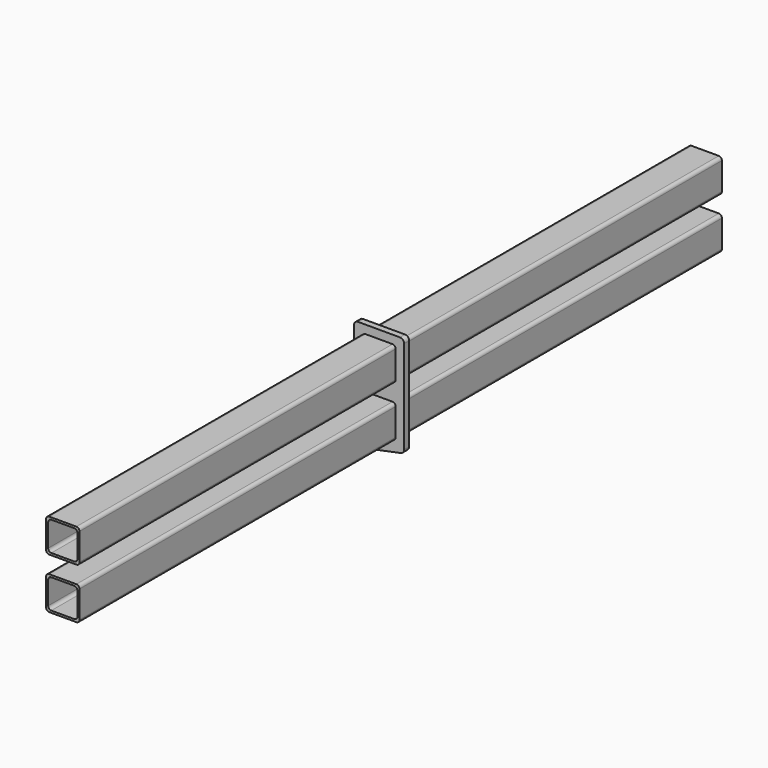
from build123d import *

# Parameters (mm, degrees)
F1_DEPTH = 1219.2
F0_R     = 19.05
F2_DEPTH = 19.05


with BuildPart() as f1:
    # F0 (on Front) → F1 (new body, symmetric)
    with BuildSketch(Plane.XZ):
        with BuildLine():
            Line((66.897137, 173.808873), (-15.398863, 173.808873))
            ThreePointArc((-15.398863, 173.808873), (-22.223858, 170.981868), (-25.050863, 164.156873))
            Line((-25.050863, 164.156873), (-25.050863, 81.860873))
            ThreePointArc((-25.050863, 81.860873), (-22.223858, 75.035879), (-15.398863, 72.208873))
            Line((-15.398863, 72.208873), (66.897137, 72.208873))
            ThreePointArc((66.897137, 72.208873), (73.722131, 75.035879), (76.549137, 81.860873))
            Line((76.549137, 81.860873), (76.549137, 164.156873))
            ThreePointArc((76.549137, 164.156873), (73.722131, 170.981868), (66.897137, 173.808873))
        make_face()
        with BuildLine():
            ThreePointArc((-18.700863, 157.806873), (-15.873858, 164.631868), (-9.048863, 167.458873))
            Line((-9.048863, 167.458873), (60.547137, 167.458873))
            ThreePointArc((60.547137, 167.458873), (67.372131, 164.631868), (70.199137, 157.806873))
            Line((70.199137, 157.806873), (70.199137, 88.210873))
            ThreePointArc((70.199137, 88.210873), (67.372131, 81.385879), (60.547137, 78.558873))
            Line((60.547137, 78.558873), (-9.048863, 78.558873))
            ThreePointArc((-9.048863, 78.558873), (-15.873858, 81.385879), (-18.700863, 88.210873))
            Line((-18.700863, 88.210873), (-18.700863, 157.806873))
        make_face(mode=Mode.SUBTRACT)
        with BuildLine():
            Line((66.897137, 19.873195), (-15.398863, 19.873195))
            ThreePointArc((-15.398863, 19.873195), (-22.223858, 17.04619), (-25.050863, 10.221195))
            Line((-25.050863, 10.221195), (-25.050863, -72.074805))
            ThreePointArc((-25.050863, -72.074805), (-22.223858, -78.899799), (-15.398863, -81.726805))
            Line((-15.398863, -81.726805), (66.897137, -81.726805))
            ThreePointArc((66.897137, -81.726805), (73.722131, -78.899799), (76.549137, -72.074805))
            Line((76.549137, -72.074805), (76.549137, 10.221195))
            ThreePointArc((76.549137, 10.221195), (73.722131, 17.04619), (66.897137, 19.873195))
        make_face()
        with BuildLine():
            ThreePointArc((-18.700863, 3.871195), (-15.873858, 10.69619), (-9.048863, 13.523195))
            Line((-9.048863, 13.523195), (60.547137, 13.523195))
            ThreePointArc((60.547137, 13.523195), (67.372131, 10.69619), (70.199137, 3.871195))
            Line((70.199137, 3.871195), (70.199137, -65.724805))
            ThreePointArc((70.199137, -65.724805), (67.372131, -72.549799), (60.547137, -75.376805))
            Line((60.547137, -75.376805), (-9.048863, -75.376805))
            ThreePointArc((-9.048863, -75.376805), (-15.873858, -72.549799), (-18.700863, -65.724805))
            Line((-18.700863, -65.724805), (-18.700863, 3.871195))
        make_face(mode=Mode.SUBTRACT)
    extrude(amount=F1_DEPTH, both=True)


with BuildPart() as f2:
    # F0 (on Front) → F2 (new body)
    with BuildSketch(Plane.XZ):
        with BuildLine():
            Line((89.249137, 199.208873), (-37.750863, 199.208873))
            ThreePointArc((-37.750863, 199.208873), (-46.731119, 195.489129), (-50.450863, 186.508873))
            Line((-50.450863, 186.508873), (-50.450863, 36.797381))
            ThreePointArc((-50.450863, 36.797381), (-51.789357, 31.122332), (-55.522703, 26.643506))
            Line((-55.522703, 26.643506), (-225.735343, -101.229772))
            ThreePointArc((-225.735343, -101.229772), (-237.564236, -147.394637), (-195.082296, -168.990986))
            Line((-195.082296, -168.990986), (91.838659, -109.232563))
            ThreePointArc((91.838659, -109.232563), (99.102485, -104.811953), (101.949137, -96.799367))
            Line((101.949137, -96.799367), (101.949137, 186.508873))
            ThreePointArc((101.949137, 186.508873), (98.229393, 195.489129), (89.249137, 199.208873))
        make_face()
        with Locations((-202.850863, -131.691396)):
            Circle(F0_R, mode=Mode.SUBTRACT)
        with BuildLine():
            ThreePointArc((-25.050863, 10.221195), (-22.223858, 17.04619), (-15.398863, 19.873195))
            Line((-15.398863, 19.873195), (66.897137, 19.873195))
            ThreePointArc((66.897137, 19.873195), (73.722131, 17.04619), (76.549137, 10.221195))
            Line((76.549137, 10.221195), (76.549137, -72.074805))
            ThreePointArc((76.549137, -72.074805), (73.722131, -78.899799), (66.897137, -81.726805))
            Line((66.897137, -81.726805), (-15.398863, -81.726805))
            ThreePointArc((-15.398863, -81.726805), (-22.223858, -78.899799), (-25.050863, -72.074805))
            Line((-25.050863, -72.074805), (-25.050863, 10.221195))
        make_face(mode=Mode.SUBTRACT)
        with BuildLine():
            ThreePointArc((-25.050863, 164.156873), (-22.223858, 170.981868), (-15.398863, 173.808873))
            Line((-15.398863, 173.808873), (66.897137, 173.808873))
            ThreePointArc((66.897137, 173.808873), (73.722131, 170.981868), (76.549137, 164.156873))
            Line((76.549137, 164.156873), (76.549137, 81.860873))
            ThreePointArc((76.549137, 81.860873), (73.722131, 75.035879), (66.897137, 72.208873))
            Line((66.897137, 72.208873), (-15.398863, 72.208873))
            ThreePointArc((-15.398863, 72.208873), (-22.223858, 75.035879), (-25.050863, 81.860873))
            Line((-25.050863, 81.860873), (-25.050863, 164.156873))
        make_face(mode=Mode.SUBTRACT)
    extrude(amount=F2_DEPTH)


solid = Compound([f1.part, f2.part])
